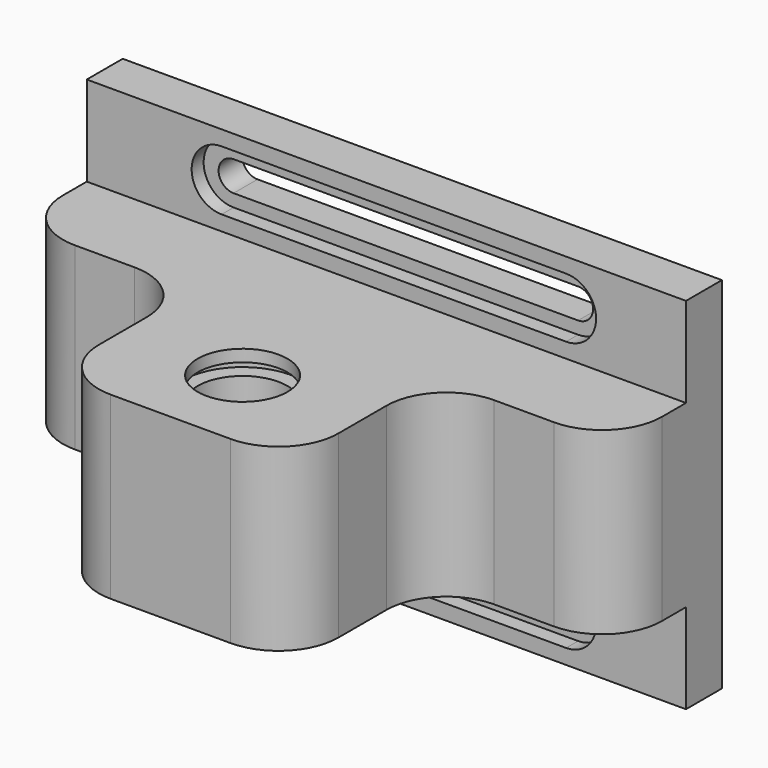
from build123d import *

# Parameters (mm, degrees)
F0_W       = 127
F0_H       = 76.2
F1_DEPTH   = 9.525
F3_DEPTH   = 3.175
F4_W       = 127
F4_H       = 38.1
F5_DEPTH   = 19.05
F6_W       = 50.8
F6_H       = 38.1
F7_DEPTH   = 38.1
F9_D       = 9.525
F10_R      = 9.525
F10_R_2    = 4.7625
F11_DEPTH  = 12.7
F12_R      = 9.525
F12_R_2    = 4.7625
F13_DEPTH  = 12.7
F17_R      = 12.7
F7_FACE_R  = 9.525
F18_DEPTH  = 2.54
F15_R      = 12.7
F7_FACE1_R = 9.525
F19_DEPTH  = 2.54
F20_R      = 12.7
F21_R      = 12.7


with BuildPart() as f1:
    # F0 (on Front) → F1 (new body)
    with BuildSketch(Plane.XZ):
        with Locations((0.997369945, 3.3350293577)):
            Rectangle(F0_W, F0_H)
        with BuildLine():
            ThreePointArc((-33.927630055, -28.4149706423), (-37.102630055, -25.2399706423), (-33.927630055, -22.0649706423))
            Line((-33.927630055, -22.0649706423), (39.097369945, -22.0649706423))
            ThreePointArc((39.097369945, -22.0649706423), (42.272369945, -25.2399706423), (39.097369945, -28.4149706423))
            Line((39.097369945, -28.4149706423), (-33.927630055, -28.4149706423))
        make_face(mode=Mode.SUBTRACT)
        with BuildLine():
            Line((39.097369945, 28.2236666642), (-33.927630055, 28.2236666642))
            ThreePointArc((-33.927630055, 28.2236666642), (-37.102630055, 31.3986666642), (-33.927630055, 34.5736666642))
            Line((-33.927630055, 34.5736666642), (39.097369945, 34.5736666642))
            ThreePointArc((39.097369945, 34.5736666642), (42.272369945, 31.3986666642), (39.097369945, 28.2236666642))
        make_face(mode=Mode.SUBTRACT)
    extrude(amount=F1_DEPTH)

    # F2 (on face) → F3 (cut)
    with BuildSketch(Plane.XZ.offset(9.525)):
        with BuildLine():
            Line((39.097369945, -18.8899706423), (-33.927630055, -18.8899706423))
            ThreePointArc((-33.927630055, -18.8899706423), (-40.277630055, -25.2399706423), (-33.927630055, -31.5899706423))
            Line((-33.927630055, -31.5899706423), (39.097369945, -31.5899706423))
            ThreePointArc((39.097369945, -31.5899706423), (45.447369945, -25.2399706423), (39.097369945, -18.8899706423))
        make_face()
        with BuildLine():
            Line((39.097369945, -28.4149706423), (-33.927630055, -28.4149706423))
            ThreePointArc((-33.927630055, -28.4149706423), (-37.102630055, -25.2399706423), (-33.927630055, -22.0649706423))
            Line((-33.927630055, -22.0649706423), (39.097369945, -22.0649706423))
            ThreePointArc((39.097369945, -22.0649706423), (42.272369945, -25.2399706423), (39.097369945, -28.4149706423))
        make_face(mode=Mode.SUBTRACT)
        with BuildLine():
            ThreePointArc((-33.927630055, 38.2600293577), (-40.277630055, 31.9100293577), (-33.927630055, 25.5600293577))
            Line((-33.927630055, 25.5600293577), (39.097369945, 25.5600293577))
            ThreePointArc((39.097369945, 25.5600293577), (45.447369945, 31.9100293577), (39.097369945, 38.2600293577))
            Line((39.097369945, 38.2600293577), (-33.927630055, 38.2600293577))
        make_face()
        with BuildLine():
            Line((-33.927630055, 34.5736666642), (39.097369945, 34.5736666642))
            ThreePointArc((39.097369945, 34.5736666642), (42.272369945, 31.3986666642), (39.097369945, 28.2236666642))
            Line((39.097369945, 28.2236666642), (-33.927630055, 28.2236666642))
            ThreePointArc((-33.927630055, 28.2236666642), (-37.102630055, 31.3986666642), (-33.927630055, 34.5736666642))
        make_face(mode=Mode.SUBTRACT)
    extrude(amount=-F3_DEPTH, mode=Mode.SUBTRACT)

    # F4 (on face) → F5 (join)
    with BuildSketch(Plane.XZ.offset(9.525)):
        with Locations((0.997369945, 3.3350293577)):
            Rectangle(F4_W, F4_H)
    extrude(amount=F5_DEPTH)

    # F6 (on face) → F7 (join)
    with BuildSketch(Plane.XZ.offset(28.575)):
        with Locations((0.997369945, 3.3350293577)):
            Rectangle(F6_W, F6_H)
    extrude(amount=F7_DEPTH)

    # F9 (through all)
    with Locations(Plane(origin=(0, 0, -15.7149706423), x_dir=(1, 0, 0), z_dir=(0, 0, -1))):
        with Locations((0.997369945, 47.625)):
            Hole(F9_D / 2)

    # F10 (on face) → F11 (cut)
    with BuildSketch(Plane(origin=(0, 0, -15.7149706423), x_dir=(1, 0, 0), z_dir=(0, 0, -1))):
        with Locations((0.997369945, 47.625)):
            Circle(F10_R)
        with Locations((0.997369945, 47.625)):
            Circle(F10_R_2, mode=Mode.SUBTRACT)
    extrude(amount=-F11_DEPTH, mode=Mode.SUBTRACT)

    # F12 (on face) → F13 (cut)
    with BuildSketch(Plane.XY.offset(22.3850293577)):
        with Locations((0.997369945, -47.625)):
            Circle(F12_R)
        with Locations((0.997369945, -47.625)):
            Circle(F12_R_2, mode=Mode.SUBTRACT)
        with Locations((0.997369945, -47.625)):
            Circle(F12_R)
    extrude(amount=-F13_DEPTH, mode=Mode.SUBTRACT)

    # F17 (on offset) + F7_face (on face) → F18 (cut)
    with BuildSketch(Plane(origin=(0, 0, -10.6349706423), x_dir=(1, 0, 0), z_dir=(0, 0, -1))):
        with Locations((0.997369945, 47.625)):
            Circle(F17_R)
    with BuildSketch(Plane(origin=(0.997369945, -31.75, -15.7149706423), x_dir=(1, 0, 0), z_dir=(0, 0, -1))):
        Polygon((-63.5, -3.175), (-63.5, -22.225), (63.5, -22.225), (63.5, -3.175), (25.4, -3.175), (25.4, 34.925), (-25.4, 34.925), (-25.4, -3.175), align=None)
        with Locations((0, 15.875)):
            Circle(F7_FACE_R, mode=Mode.SUBTRACT)
    extrude(amount=F18_DEPTH, mode=Mode.SUBTRACT)

    # F15 (on offset) + F7_face1 (on face) → F19 (cut)
    with BuildSketch(Plane.XY.offset(17.3050293577)):
        with Locations((0.997369945, -47.625)):
            Circle(F15_R)
    with BuildSketch(Plane(origin=(0.997369945, -31.4859250029, 22.3850293577), x_dir=(1, 0, 0), z_dir=(0, 0, 1))):
        Polygon((63.5, 2.9109250029), (63.5, 21.9609250029), (-63.5, 21.9609250029), (-63.5, 2.9109250029), (-25.4, 2.9109250029), (-25.4, -35.1890749971), (25.4, -35.1890749971), (25.4, 2.9109250029), align=None)
        with Locations((0, -16.1390749971)):
            Circle(F7_FACE1_R, mode=Mode.SUBTRACT)
    extrude(amount=F19_DEPTH, mode=Mode.SUBTRACT)

    # F20
    f20_edges = [f1.edges().sort_by_distance(p)[0] for p in [
        (-62.50263, -28.575, 3.335029),
        (-24.40263, -28.575, 3.335029),
        (-24.40263, -66.675, 3.335029),
        (26.39737, -66.675, 3.335029),
        (26.39737, -28.575, 3.335029),
    ]]
    fillet(f20_edges, radius=F20_R)

    # F21
    f21_edges = [f1.edges().sort_by_distance(p)[0] for p in [
        (64.49737, -28.575, 3.335029),
    ]]
    fillet(f21_edges, radius=F21_R)


solid = f1.part
